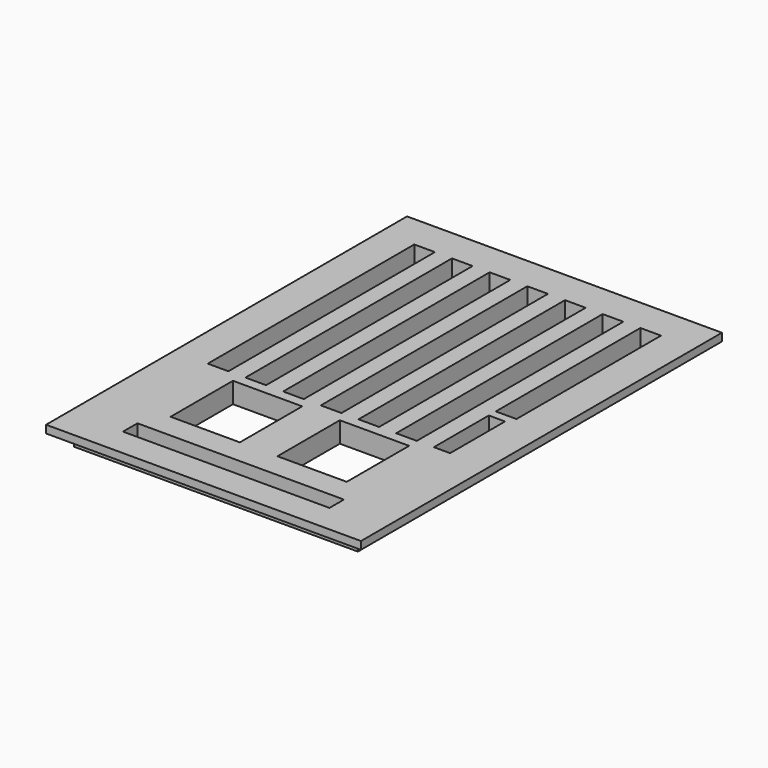
from build123d import *

# Parameters (mm, degrees)
SKETCH_W      = 55
SKETCH_H      = 81.4
SKETCH_W_2    = 4
SKETCH_H_2    = 50
SKETCH_H_3    = 35
SKETCH_W_3    = 3.15
SKETCH_H_4    = 13.3
SKETCH_W_4    = 13.42
SKETCH_H_5    = 15.1
SKETCH_W_5    = 40
SKETCH_H_6    = 3.5
PAD_DEPTH     = 4
SKETCH001_W   = 61
SKETCH001_H   = 87.4
SKETCH001_W_2 = 55
SKETCH001_H_2 = 81.4
PAD001_DEPTH  = 1.5


with BuildPart() as part:
    # Sketch → Pad (new body)
    with BuildSketch(Plane.XY):
        Rectangle(SKETCH_W, SKETCH_H)
        with Locations((-21.9, 12.2)):
            Rectangle(SKETCH_W_2, SKETCH_H_2, mode=Mode.SUBTRACT)
        with Locations((-14.6, 12.2)):
            Rectangle(SKETCH_W_2, SKETCH_H_2, mode=Mode.SUBTRACT)
        with Locations((-7.3, 12.2)):
            Rectangle(SKETCH_W_2, SKETCH_H_2, mode=Mode.SUBTRACT)
        with Locations((0, 12.2)):
            Rectangle(SKETCH_W_2, SKETCH_H_2, mode=Mode.SUBTRACT)
        with Locations((7.3, 12.2)):
            Rectangle(SKETCH_W_2, SKETCH_H_2, mode=Mode.SUBTRACT)
        with Locations((14.6, 12.2)):
            Rectangle(SKETCH_W_2, SKETCH_H_2, mode=Mode.SUBTRACT)
        with Locations((21.9, 19.7)):
            Rectangle(SKETCH_W_2, SKETCH_H_3, mode=Mode.SUBTRACT)
        with Locations((21.475, -6.15)):
            Rectangle(SKETCH_W_3, SKETCH_H_4, mode=Mode.SUBTRACT)
        with Locations((-10.71, -22.35)):
            Rectangle(SKETCH_W_4, SKETCH_H_5, mode=Mode.SUBTRACT)
        with Locations((9.99, -22.35)):
            Rectangle(SKETCH_W_4, SKETCH_H_5, mode=Mode.SUBTRACT)
        with Locations((0, -36.45)):
            Rectangle(SKETCH_W_5, SKETCH_H_6, mode=Mode.SUBTRACT)
    extrude(amount=PAD_DEPTH)

    # Sketch001 → Pad001 (new body)
    with BuildSketch(Plane.XY.offset(4)):
        Rectangle(SKETCH001_W, SKETCH001_H)
        Rectangle(SKETCH001_W_2, SKETCH001_H_2, mode=Mode.SUBTRACT)
    extrude(amount=-PAD001_DEPTH)


solid = part.part
